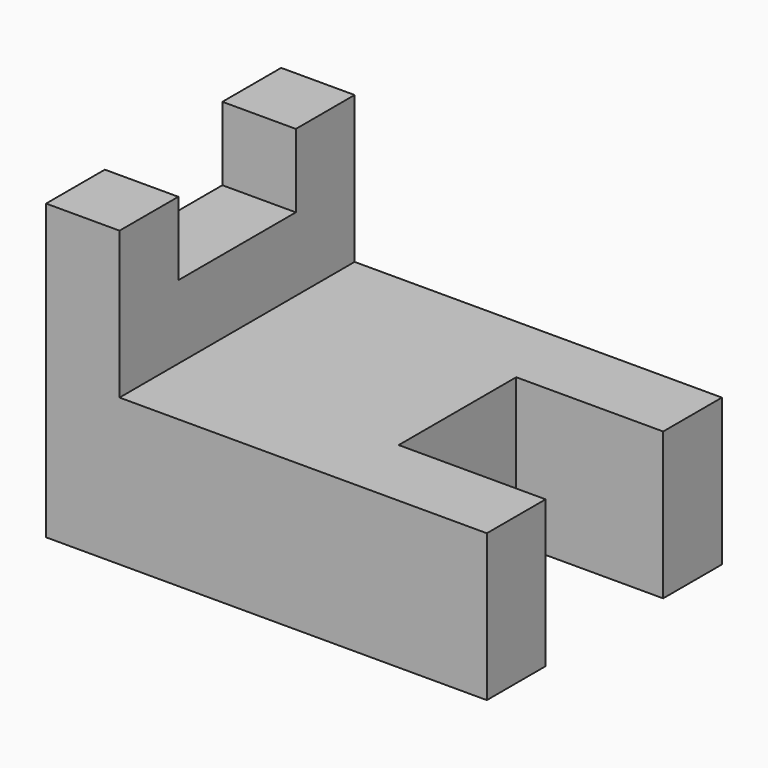
from build123d import *

# Parameters (mm, degrees)
F0_W     = 12.7
F0_H     = 12.7
F0_W_2   = 6.35
F0_H_2   = 6.35
F1_DEPTH = 12.7
F2_DEPTH = 6.35


with BuildPart() as f1:
    # F0 (on Front) → F1 (new body, symmetric)
    with BuildSketch(Plane.XZ):
        Polygon((0, 19.05), (0, 0), (25.4, 0), (25.4, 12.7), (6.35, 12.7), (6.35, 19.05), align=None)
        with Locations((31.75, 6.35)):
            Rectangle(F0_W, F0_H)
        with Locations((3.175, 22.225)):
            Rectangle(F0_W_2, F0_H_2)
    extrude(amount=F1_DEPTH, both=True)

    # F0 (on Front) → F2 (cut, symmetric)
    with BuildSketch(Plane.XZ):
        with Locations((3.175, 22.225)):
            Rectangle(F0_W_2, F0_H_2)
        with Locations((31.75, 6.35)):
            Rectangle(F0_W, F0_H)
    extrude(amount=F2_DEPTH, both=True, mode=Mode.SUBTRACT)


solid = f1.part
